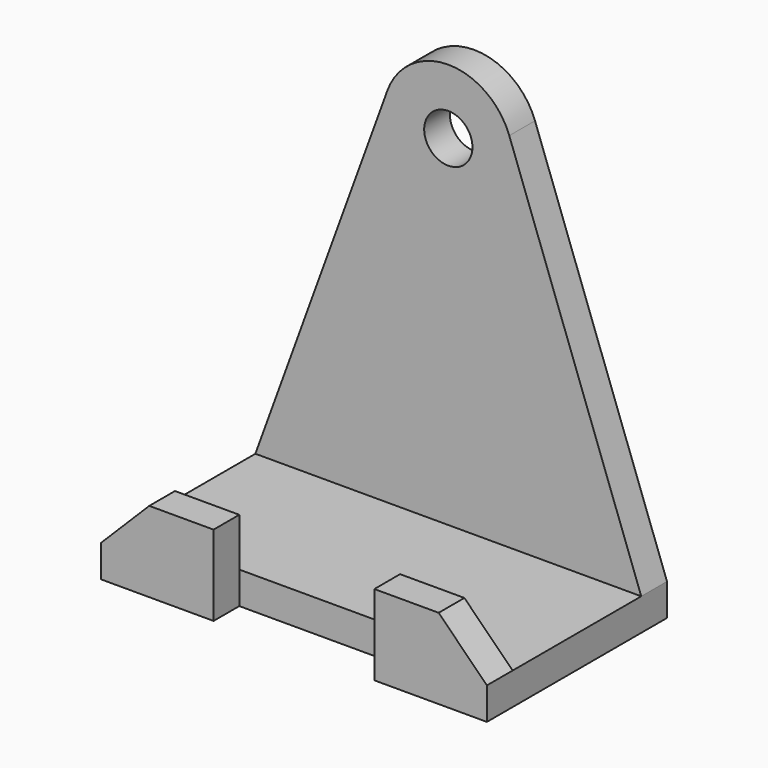
from build123d import *

# Parameters (mm, degrees)
F0_R     = 7.5
F0_W     = 120
F0_H     = 10
F1_DEPTH = 10
F2_W     = 120
F2_H     = 10
F3_DEPTH = 50
F4_W     = 35
F4_H     = 10
F5_DEPTH = 10


with BuildPart() as f1:
    # F0 (on Front) → F1 (new body)
    with BuildSketch(Plane.XZ):
        with BuildLine():
            Line((-20.090676, 74.255499), (-61.133094, -38.507616))
            Line((-61.133094, -38.507616), (58.866906, -38.507616))
            Line((58.866906, -38.507616), (17.824489, 74.255499))
            ThreePointArc((17.824489, 74.255499), (-1.133094, 87.529741), (-20.090676, 74.255499))
        make_face()
        with Locations((-1.133094, 67.355503)):
            Circle(F0_R, mode=Mode.SUBTRACT)
        with Locations((-1.133094, -43.507616)):
            Rectangle(F0_W, F0_H)
    extrude(amount=F1_DEPTH)

    # F2 (on face) → F3 (join)
    with BuildSketch(Plane.XZ.offset(10)):
        with Locations((-1.133094, -43.507616)):
            Rectangle(F2_W, F2_H)
    extrude(amount=F3_DEPTH)

    # F4 (on face) → F5 (join)
    with BuildSketch(Plane.XZ.offset(60)):
        Polygon((23.866906, -23.507616), (23.866906, -38.507616), (58.866906, -38.507616), (43.866906, -23.507616), align=None)
        with Locations((-43.633094, -43.507616)):
            Rectangle(F4_W, F4_H)
        with Locations((41.366906, -43.507616)):
            Rectangle(F4_W, F4_H)
        Polygon((-46.133094, -23.507616), (-61.133094, -38.507616), (-26.133094, -38.507616), (-26.133094, -23.507616), align=None)
    extrude(amount=F5_DEPTH)


solid = f1.part
